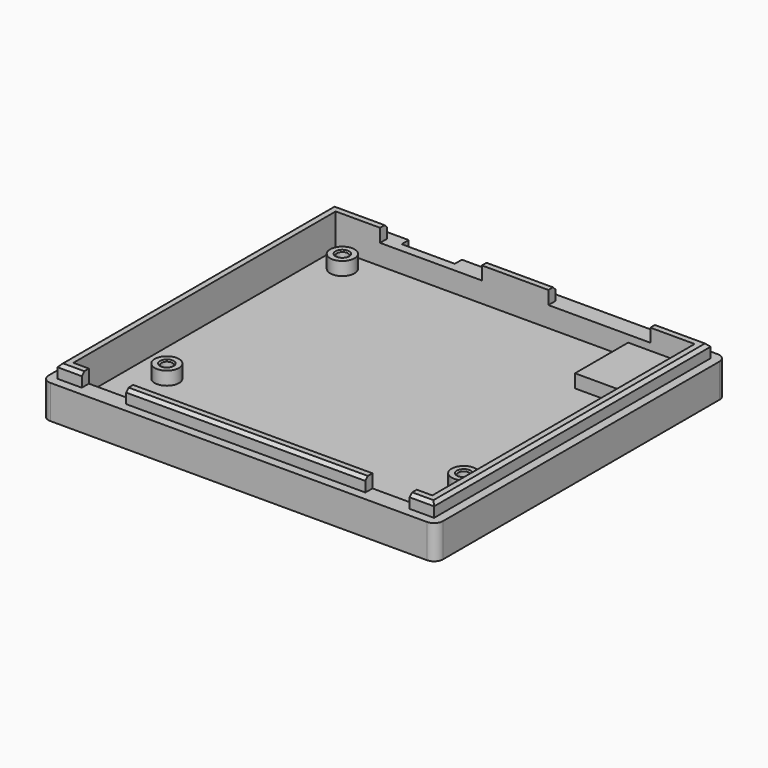
from build123d import *

# Parameters (mm, degrees)
SKETCH_W        = 89
SKETCH_H        = 82
SKETCH_W_2      = 81
SKETCH_H_2      = 74
PAD_DEPTH       = 4.6
SKETCH001_W     = 89
SKETCH001_H     = 82
PAD001_DEPTH    = 3
SKETCH002_R     = 2.75
SKETCH002_R_2   = 1.25
PAD002_DEPTH    = 3
SKETCH003_W     = 15
SKETCH003_H     = 15
PAD003_DEPTH    = 3
FILLET_R        = 2
CHAMFER_SIZE    = 0.3
SKETCH004_W     = 15
SKETCH004_H     = 2
SKETCH004_W_2   = 54
SKETCH004_H_2   = 2.0000000001
PAD004_DEPTH    = 3
CHAMFER001_SIZE = 0.707
SKETCH010_W     = 12
SKETCH010_H     = 2
POCKET003_DEPTH = 2


with BuildPart() as part:
    # Sketch → Pad (new body)
    with BuildSketch(Plane.XY):
        with Locations((44.5, 41)):
            Rectangle(SKETCH_W, SKETCH_H)
        with Locations((44.5, 41)):
            Rectangle(SKETCH_W_2, SKETCH_H_2, mode=Mode.SUBTRACT)
    extrude(amount=PAD_DEPTH)

    # Sketch001 (on Face9 of Pad) → Pad001 (join)
    with BuildSketch(Plane(origin=(0, 0, 0), x_dir=(1, 0, 0), z_dir=(0, 0, -1))):
        with Locations((44.5, -41)):
            Rectangle(SKETCH001_W, SKETCH001_H)
    extrude(amount=PAD001_DEPTH)

    # Sketch002 (on Face8 of Pad001) → Pad002 (join)
    with BuildSketch(Plane.XY):
        with Locations((9.5, 73)):
            Circle(SKETCH002_R)
        with Locations((9.5, 73)):
            Circle(SKETCH002_R_2, mode=Mode.SUBTRACT)
        with Locations((78.5, 21)):
            Circle(SKETCH002_R)
        with Locations((78.5, 21)):
            Circle(SKETCH002_R_2, mode=Mode.SUBTRACT)
        with Locations((11.5, 21)):
            Circle(SKETCH002_R)
        with Locations((11.5, 21)):
            Circle(SKETCH002_R_2, mode=Mode.SUBTRACT)
    extrude(amount=PAD002_DEPTH)

    # Sketch003 (on Face11 of Pad002) → Pad003 (join)
    with BuildSketch(Plane.XY):
        with Locations((77.5, 70.5)):
            Rectangle(SKETCH003_W, SKETCH003_H)
    extrude(amount=PAD003_DEPTH)

    # Fillet
    fillet_edges = [part.edges().sort_by_distance(p)[0] for p in [
        (89, 0, 0.8),
        (89, 82, 0.8),
        (0, 0, 0.8),
        (0, 82, 0.8),
    ]]
    fillet(fillet_edges, radius=FILLET_R)

    # Chamfer
    chamfer_edges = [part.edges().sort_by_distance(p)[0] for p in [
        (8.25, 73, 3),
        (10.25, 21, 3),
        (77.25, 21, 3),
    ]]
    chamfer(chamfer_edges, length=CHAMFER_SIZE)

    # Sketch004 (on Face16 of Chamfer) → Pad004 (join)
    with BuildSketch(Plane.XY.offset(4.6)):
        Polygon((4, 78), (4, 4), (7.5, 4), (7.5, 1.9999999999), (2, 1.9999999999), (2, 80), (14, 80), (14, 78), align=None)
        Polygon((85, 4), (85, 78), (75, 78), (75, 80), (87, 80), (87, 1.9999999999), (81.5, 1.9999999999), (81.5, 4), align=None)
        with Locations((44.5, 79)):
            Rectangle(SKETCH004_W, SKETCH004_H)
        with Locations((44.5, 3)):
            Rectangle(SKETCH004_W_2, SKETCH004_H_2)
    extrude(amount=PAD004_DEPTH)

    # Chamfer001
    chamfer001_edges = [part.edges().sort_by_distance(p)[0] for p in [
        (8, 80, 7.6),
        (2, 41, 7.6),
        (44.5, 80, 7.6),
        (81, 80, 7.6),
        (87, 41, 7.6),
        (84.25, 2, 7.6),
        (44.5, 2, 7.6),
        (4.75, 2, 7.6),
    ]]
    chamfer(chamfer001_edges, length=CHAMFER001_SIZE)

    # Sketch010 (on Face16 of Chamfer001) → Pocket003 (cut)
    with BuildSketch(Plane(origin=(0, 82, 0), x_dir=(-1, 0, 0), z_dir=(0, 1, 0))):
        with Locations((-23.275, 3.6)):
            Rectangle(SKETCH010_W, SKETCH010_H)
    extrude(amount=-POCKET003_DEPTH, mode=Mode.SUBTRACT)


solid = part.part
